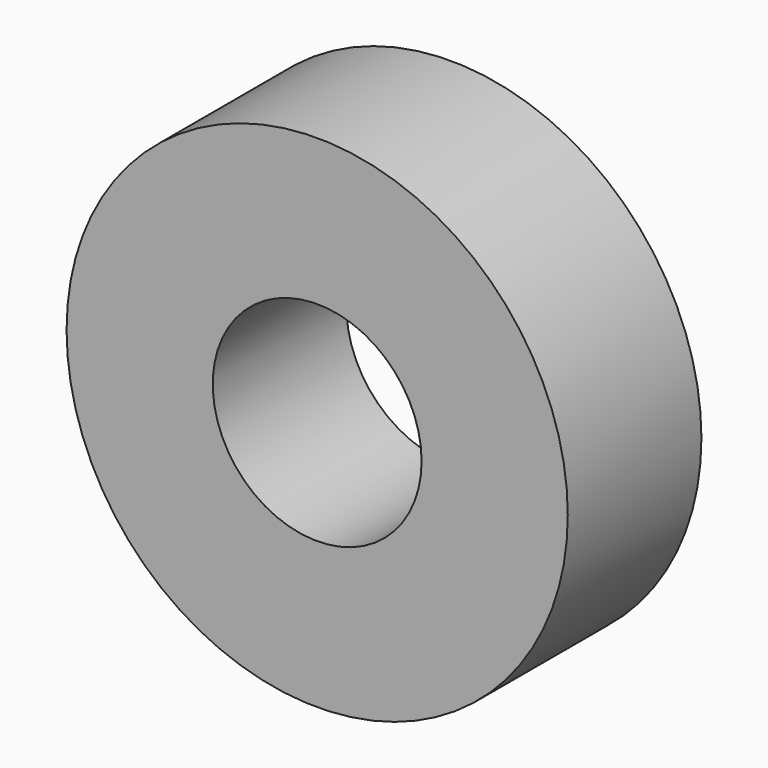
from build123d import *

# Parameters (mm, degrees)
F0_R     = 60
F0_R_2   = 25
F1_DEPTH = 40


with BuildPart() as f1:
    # F0 (on Front) → F1 (new body)
    with BuildSketch(Plane.XZ):
        Circle(F0_R)
        Circle(F0_R_2, mode=Mode.SUBTRACT)
    extrude(amount=F1_DEPTH)


with BuildPart() as f2_1:
    # F2: copy of F1
    add(f1.part)


solid = Compound([f1.part, f2_1.part])
